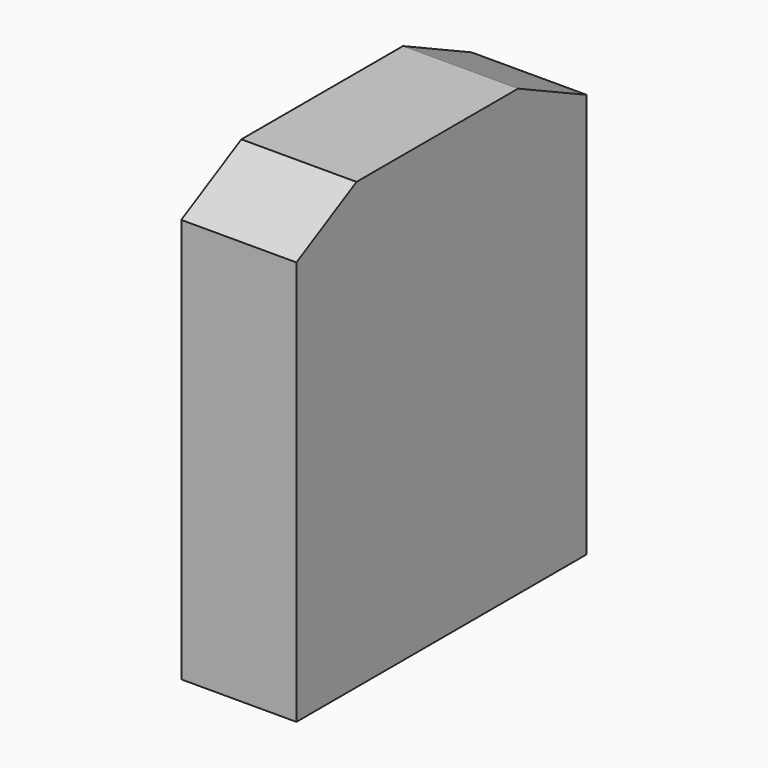
from build123d import *

# Parameters (mm, degrees)
F0_W     = 14.6975922398
F0_H     = 32.3806256056
F1_DEPTH = 8.382


with BuildPart() as f1:
    # F0 (on Right) → F1 (new body)
    with BuildSketch(Plane.YZ):
        Polygon((26.4097284526, 29.4411070645), (20.163256675, 32.3806256056), (20.163256675, 0), (26.4097284526, 0), align=None)
        Polygon((5.4656644352, 0), (5.4656644352, 32.3806256056), (0, 29.4411070645), (0, 0), align=None)
        with Locations((12.8144605551, 16.1903128028)):
            Rectangle(F0_W, F0_H)
    extrude(amount=-F1_DEPTH)


solid = f1.part
